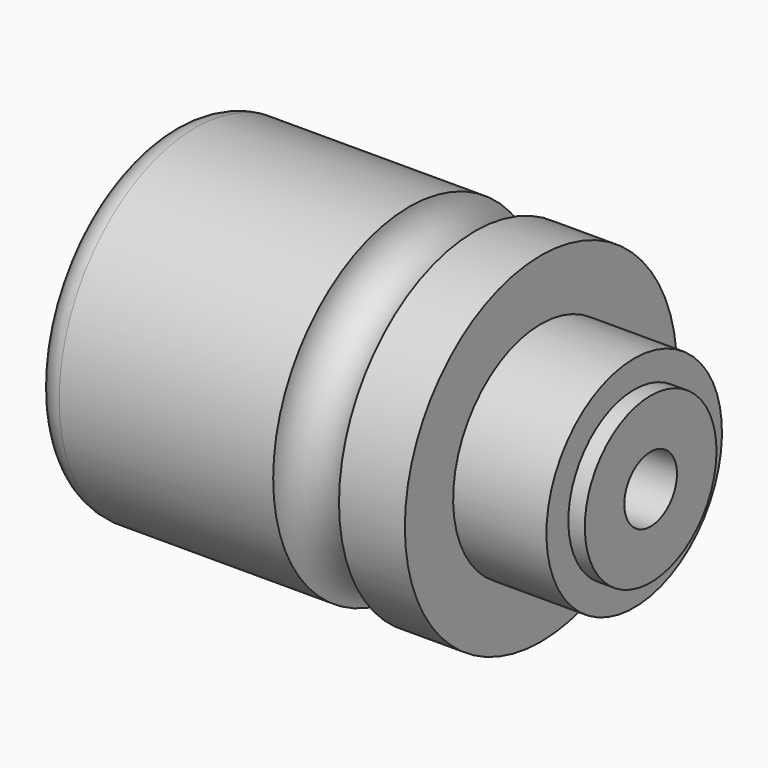
from build123d import *

# Parameters (mm, degrees)
F4_R = 5


with BuildPart() as f2:
    # F0 (on Front) → F2 (revolve)
    with BuildSketch(Plane.XZ):
        with BuildLine():
            Line((0, 31), (0, 0))
            Line((0, 0), (88, 0))
            Line((88, 0), (88, 15))
            Line((88, 15), (85, 15))
            Line((85, 15), (85, 20))
            Line((85, 20), (68, 20))
            Line((68, 20), (68, 31))
            Line((68, 31), (56, 31))
            ThreePointArc((56, 31), (50, 25), (44, 31))
            Line((44, 31), (0, 31))
        make_face()
    revolve(axis=Axis((63.740881, 0, 0), (1, 0, 0)))

    # F1 (on Front) → F3 (revolve, cut)
    with BuildSketch(Plane.XZ):
        Polygon((1.5, 25), (0, 25), (0, 0), (88, 0), (88, 6), (30, 6), (30, 16), (22, 16), (22, 20.5), (15, 20.5), (15, 12.5), (12, 12.5), (12, 16), (1.5, 16), align=None)
    revolve(axis=Axis((-14.931626, 0, 0), (-1, 0, 0)), mode=Mode.SUBTRACT)

    # F4
    f4_edges = [f2.edges().sort_by_distance(p)[0] for p in [
        (0, 0, -31),
    ]]
    fillet(f4_edges, radius=F4_R)


solid = f2.part
